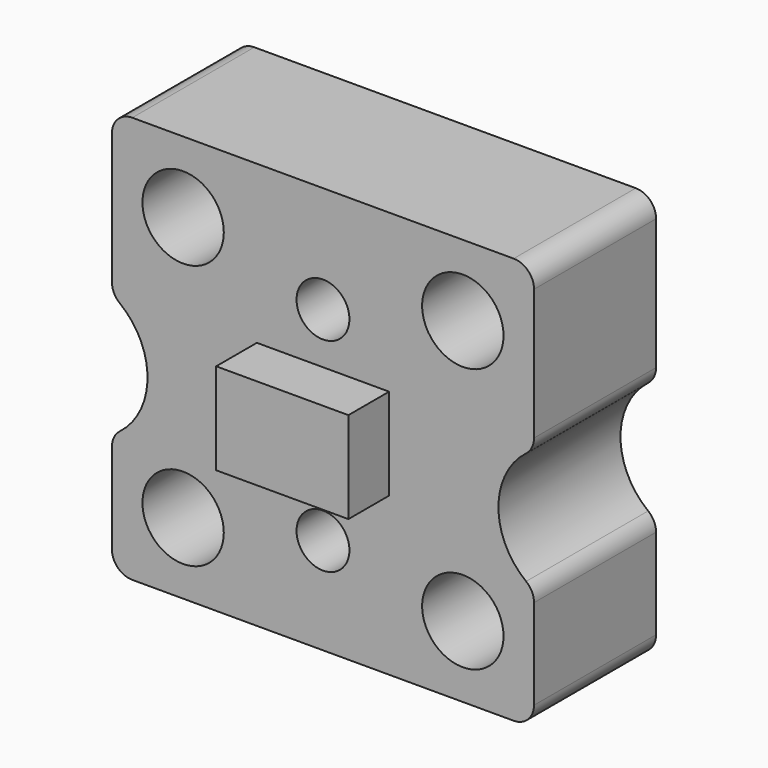
from build123d import *

# Parameters (mm, degrees)
F0_R     = 4
F0_R_2   = 2.6
F1_DEPTH = 15
F2_R     = 2
F3_W     = 13
F3_H     = 9
F4_DEPTH = 5


with BuildPart() as f1:
    # F0 (on Front) → F1 (new body)
    with BuildSketch(Plane.XZ):
        with BuildLine():
            Line((20.75, 22), (-20.75, 22))
            Line((-20.75, 22), (-20.75, 6.062178))
            ThreePointArc((-20.75, 6.062178), (-17.25, 0), (-20.75, -6.062178))
            Line((-20.75, -6.062178), (-20.75, -18))
            Line((-20.75, -18), (20.75, -18))
            Line((20.75, -18), (20.75, -6.062178))
            ThreePointArc((20.75, -6.062178), (17.25, 0), (20.75, 6.062178))
            Line((20.75, 6.062178), (20.75, 22))
        make_face()
        with Locations((-13.75, -11)):
            Circle(F0_R, mode=Mode.SUBTRACT)
        with Locations((0, -8.5)):
            Circle(F0_R_2, mode=Mode.SUBTRACT)
        with Locations((13.75, -11)):
            Circle(F0_R, mode=Mode.SUBTRACT)
        with Locations((-13.75, 15)):
            Circle(F0_R, mode=Mode.SUBTRACT)
        with Locations((0, 11.5)):
            Circle(F0_R_2, mode=Mode.SUBTRACT)
        with Locations((13.75, 15)):
            Circle(F0_R, mode=Mode.SUBTRACT)
    extrude(amount=F1_DEPTH)

    # F2
    f2_edges = [f1.edges().sort_by_distance(p)[0] for p in [
        (-20.75, -7.5, 22),
        (20.75, -7.5, 22),
        (-20.75, -7.5, -18),
        (20.75, -7.5, -18),
        (20.75, -7.5, 6.062178),
        (20.75, -7.5, -6.062178),
        (-20.75, -7.5, 6.062178),
        (-20.75, -7.5, -6.062178),
    ]]
    fillet(f2_edges, radius=F2_R)

    # F3 (on face) → F4 (join)
    with BuildSketch(Plane.XZ.offset(15)):
        with Locations((0, 2)):
            Rectangle(F3_W, F3_H)
    extrude(amount=F4_DEPTH)


solid = f1.part
